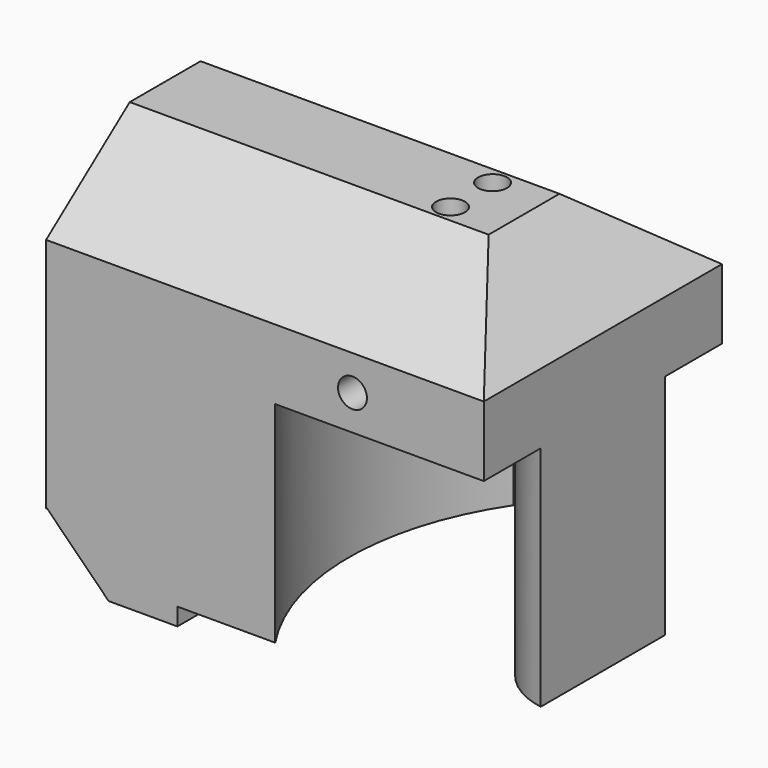
from build123d import *

# Parameters (mm, degrees)
CYLINDER023_R               = 1.5
CYLINDER023_DEPTH           = 48
CYLINDER022_R               = 1.5
CYLINDER022_DEPTH           = 48
CYLINDER021_R               = 1.65
CYLINDER021_DEPTH           = 20
CYLINDER021_PLACEMENT_ANGLE = 45
CYLINDER020_R               = 1.65
CYLINDER020_DEPTH           = 20
CYLINDER020_PLACEMENT_ANGLE = 45
BOX008_W                    = 10
BOX008_H                    = 34
BOX008_DEPTH                = 10
BOX008_PLACEMENT_ANGLE      = 45
CYLINDER018_R               = 5
CYLINDER018_DEPTH           = 20
CYLINDER019_R               = 5
CYLINDER019_DEPTH           = 20
CYLINDER017_R               = 5
CYLINDER017_DEPTH           = 38
BOX006_W                    = 15
BOX006_H                    = 34
BOX006_DEPTH                = 2
CYLINDER011_R               = 2.5
CYLINDER011_DEPTH           = 10
CYLINDER012_R               = 2.5
CYLINDER012_DEPTH           = 10
CYLINDER009_R               = 1.65
CYLINDER009_DEPTH           = 34
CYLINDER010_R               = 1.65
CYLINDER010_DEPTH           = 34
CYLINDER008_R               = 1.65
CYLINDER008_DEPTH           = 34
CYLINDER001_R               = 9
CYLINDER001_DEPTH           = 26
CYLINDER_R                  = 30.5
CYLINDER_DEPTH              = 26
BOX002_W                    = 72
BOX002_H                    = 20
BOX002_DEPTH                = 50
BOX002_PLACEMENT_ANGLE      = 53
BOX003_W                    = 72
BOX003_H                    = 20
BOX003_DEPTH                = 50
BOX003_PLACEMENT_ANGLE      = 53
COMPOUND_PLACEMENT_ANGLE    = 180
BOX001_W                    = 100
BOX001_H                    = 34
BOX001_DEPTH                = 50
BOX001_PLACEMENT_ANGLE      = 45
BOX_W                       = 50
BOX_H                       = 34
BOX_DEPTH                   = 43


with BuildPart() as cylinder023:
    # Cylinder023 → Cylinder023 (new body)
    with BuildSketch(Plane(origin=(0, 29, 26), x_dir=(0, 0, -1), z_dir=(1, 0, 0))):
        Circle(CYLINDER023_R)
    extrude(amount=CYLINDER023_DEPTH)


with BuildPart() as cabledrillhole:
    # Cylinder022 → Cylinder022 (new body)
    with BuildSketch(Plane(origin=(0, 5, 26), x_dir=(0, 0, -1), z_dir=(1, 0, 0))):
        Circle(CYLINDER022_R)
    extrude(amount=CYLINDER022_DEPTH)

    # Fusion008: union Cylinder023
    add(cylinder023.part)


with BuildPart() as cylinder021:
    # Cylinder021 → Cylinder021 (new body)
    with BuildSketch(Plane.XY):
        Circle(CYLINDER021_R)
    extrude(amount=CYLINDER021_DEPTH)


with BuildPart() as cylinder021_1:
    # Cylinder021 placement: moved
    add(cylinder021.part.moved(Location((0, 29.5, 0))).rotate(Axis((0, 29.5, 0), (0, 1, 0)), CYLINDER021_PLACEMENT_ANGLE))


with BuildPart() as m4screws:
    # Cylinder020 → Cylinder020 (new body)
    with BuildSketch(Plane.XY):
        Circle(CYLINDER020_R)
    extrude(amount=CYLINDER020_DEPTH)


with BuildPart() as m4screws_1:
    # Cylinder020 placement: moved
    add(m4screws.part.moved(Location((0, 4.5, 0))).rotate(Axis((0, 4.5, 0), (0, 1, 0)), CYLINDER020_PLACEMENT_ANGLE))

    # Fusion007: union Cylinder021
    add(cylinder021_1.part)


with BuildPart() as cube008:
    # Box008 → Box008 (new body)
    with BuildSketch(Plane.XY):
        with Locations((5, 17)):
            Rectangle(BOX008_W, BOX008_H)
    extrude(amount=BOX008_DEPTH)


with BuildPart() as cube008_1:
    # Box008 placement: moved
    add(cube008.part.moved(Location((-7, 0, 0))).rotate(Axis((-7, 0, 0), (0, 1, 0)), BOX008_PLACEMENT_ANGLE))


with BuildPart() as nitrogenchamber002:
    # Cylinder018 → Cylinder018 (new body)
    with BuildSketch(Plane(origin=(0, 17, 14.5), x_dir=(0, 0, -1), z_dir=(1, 0, 0))):
        Circle(CYLINDER018_R)
    extrude(amount=CYLINDER018_DEPTH)


with BuildPart() as nitrogenchamber003:
    # Cylinder019 → Cylinder019 (new body)
    with BuildSketch(Plane(origin=(0, 17, 35.5), x_dir=(0, 0, -1), z_dir=(1, 0, 0))):
        Circle(CYLINDER019_R)
    extrude(amount=CYLINDER019_DEPTH)


with BuildPart() as nitrogenchamber:
    # Cylinder017 → Cylinder017 (new body)
    with BuildSketch(Plane(origin=(13, 17, 0), x_dir=(0, 1, 0), z_dir=(0, 0, 1))):
        Circle(CYLINDER017_R)
    extrude(amount=CYLINDER017_DEPTH)

    # Fusion006: union NitrogenChamber002, NitrogenChamber003
    add(nitrogenchamber002.part)
    add(nitrogenchamber003.part)


with BuildPart() as cube006:
    # Box006 → Box006 (new body)
    with BuildSketch(Plane(origin=(15, 0, 0), x_dir=(1, 0, 0), z_dir=(0, 0, 1))):
        with Locations((7.5, 17)):
            Rectangle(BOX006_W, BOX006_H)
    extrude(amount=BOX006_DEPTH)


with BuildPart() as cylinder011:
    # Cylinder011 → Cylinder011 (new body)
    with BuildSketch(Plane(origin=(20, 5, 0), x_dir=(1, 0, 0), z_dir=(0, 0, 1))):
        Circle(CYLINDER011_R)
    extrude(amount=CYLINDER011_DEPTH)


with BuildPart() as obj1:
    # Cylinder012 → Cylinder012 (new body)
    with BuildSketch(Plane(origin=(20, 29, 0), x_dir=(1, 0, 0), z_dir=(0, 0, 1))):
        Circle(CYLINDER012_R)
    extrude(amount=CYLINDER012_DEPTH)

    # Fusion002: union Cylinder011
    add(cylinder011.part)


with BuildPart() as cylinder009:
    # Cylinder009 → Cylinder009 (new body)
    with BuildSketch(Plane(origin=(35, 20, 27), x_dir=(1, 0, 0), z_dir=(0, 0, 1))):
        Circle(CYLINDER009_R)
    extrude(amount=CYLINDER009_DEPTH)


with BuildPart() as cylinder010:
    # Cylinder010 → Cylinder010 (new body)
    with BuildSketch(Plane(origin=(35, 14, 27), x_dir=(1, 0, 0), z_dir=(0, 0, 1))):
        Circle(CYLINDER010_R)
    extrude(amount=CYLINDER010_DEPTH)


with BuildPart() as m4mountscrews01_corehole:
    # Cylinder008 → Cylinder008 (new body)
    with BuildSketch(Plane(origin=(35, 34, 30), x_dir=(1, 0, 0), z_dir=(0, -1, 0))):
        Circle(CYLINDER008_R)
    extrude(amount=CYLINDER008_DEPTH)

    # Fusion001: union Cylinder009, Cylinder010
    add(cylinder009.part)
    add(cylinder010.part)


with BuildPart() as cylinder001:
    # Cylinder001 → Cylinder001 (new body)
    with BuildSketch(Plane.XY):
        Circle(CYLINDER001_R)
    extrude(amount=CYLINDER001_DEPTH)


with BuildPart() as cut001:
    # Cylinder → Cylinder (new body)
    with BuildSketch(Plane.XY):
        Circle(CYLINDER_R)
    extrude(amount=CYLINDER_DEPTH)

    # Cut001: cut Cylinder001
    add(cylinder001.part, mode=Mode.SUBTRACT)


with BuildPart() as cut001_1:
    # Cut001 placement: moved
    add(cut001.part.moved(Location((51.5, 17, 0))))


with BuildPart() as cube002:
    # Box002 → Box002 (new body)
    with BuildSketch(Plane.XY):
        with Locations((36, 10)):
            Rectangle(BOX002_W, BOX002_H)
    extrude(amount=BOX002_DEPTH)


with BuildPart() as cube002_1:
    # Box002 placement: moved
    add(cube002.part.moved(Location((0, 34, 34))).rotate(Axis((0, 34, 34), (1, 0, 0)), BOX002_PLACEMENT_ANGLE))


with BuildPart() as compound:
    # Box003 → Box003 (new body)
    with BuildSketch(Plane.XY):
        with Locations((36, 10)):
            Rectangle(BOX003_W, BOX003_H)
    extrude(amount=BOX003_DEPTH)


with BuildPart() as compound_1:
    # Box003 placement: moved
    add(compound.part.moved(Location((0, 34, 34))).rotate(Axis((0, 34, 34), (1, 0, 0)), BOX003_PLACEMENT_ANGLE))


with BuildPart() as compound_2:
    # Compound placement: moved
    add(compound_1.part.moved(Location((72, 34, 0))).rotate(Axis((72, 34, 0), (0, 0, 1)), COMPOUND_PLACEMENT_ANGLE))


with BuildPart() as fusion:
    # Box001 → Box001 (new body)
    with BuildSketch(Plane.XY):
        with Locations((50, 17)):
            Rectangle(BOX001_W, BOX001_H)
    extrude(amount=BOX001_DEPTH)


with BuildPart() as fusion_1:
    # Box001 placement: moved
    add(fusion.part.moved(Location((41, 0, 43))).rotate(Axis((41, 0, 43), (0, 1, 0)), BOX001_PLACEMENT_ANGLE))

    # Fusion: union Cube002, Compound
    add(cube002_1.part)
    add(compound_2.part)


with BuildPart() as obj2:
    # Box → Box (new body)
    with BuildSketch(Plane.XY):
        with Locations((25, 17)):
            Rectangle(BOX_W, BOX_H)
    extrude(amount=BOX_DEPTH)

    # Cut: cut Fusion
    add(fusion_1.part, mode=Mode.SUBTRACT)

    # Cut003: cut Cut001
    add(cut001_1.part, mode=Mode.SUBTRACT)

    # Cut008: cut M4Mountscrews01_Corehole
    add(m4mountscrews01_corehole.part, mode=Mode.SUBTRACT)

    # Cut009: cut obj1
    add(obj1.part, mode=Mode.SUBTRACT)

    # Cut011: cut Cube006
    add(cube006.part, mode=Mode.SUBTRACT)

    # Cut014: cut NitrogenChamber
    add(nitrogenchamber.part, mode=Mode.SUBTRACT)

    # Cut015: cut Cube008
    add(cube008_1.part, mode=Mode.SUBTRACT)

    # Cut016: cut M4Screws
    add(m4screws_1.part, mode=Mode.SUBTRACT)

    # Cut017: cut CableDrillHole
    add(cabledrillhole.part, mode=Mode.SUBTRACT)


solid = obj2.part
